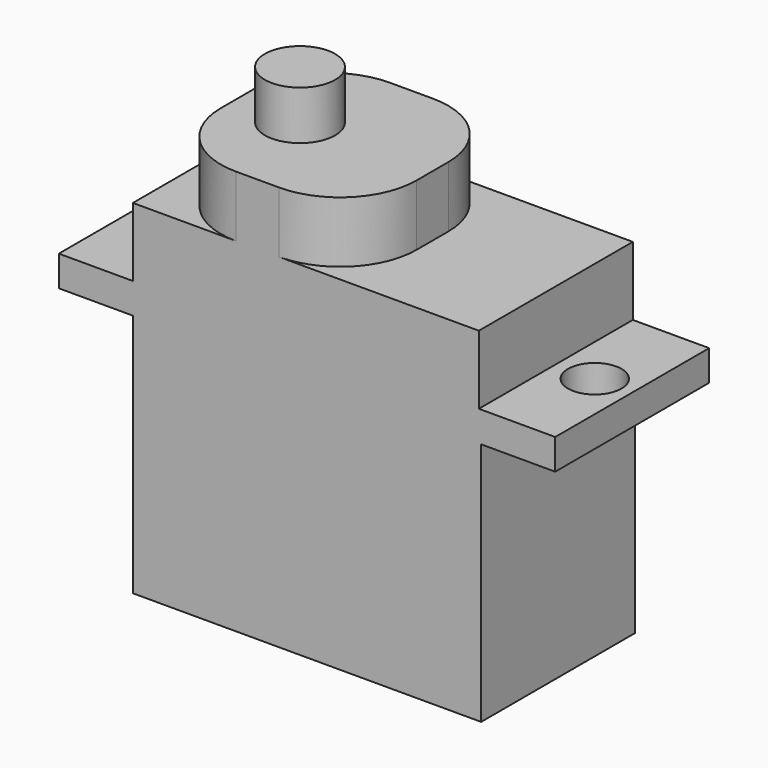
from build123d import *

# Parameters (mm, degrees)
F1_DEPTH = 12.6
F2_R     = 1.75
F3_DEPTH = 2
F4_R     = 2.3
F5_DEPTH = 3.2
F6_R     = 5
F7_W     = 5.6
F7_H     = 2
F8_DEPTH = 2
F9_R     = 0.5


with BuildPart() as f1:
    # F0 (on Front) → F1 (new body)
    with BuildSketch(Plane.XZ):
        Polygon((-4.85, 16), (0, 16), (0, 0), (22.8, 0), (22.8, 16), (27.65, 16), (27.65, 18), (22.65, 18), (22.65, 22.5), (14.568375, 22.5), (14.568375, 26.5), (1.7551, 26.5), (1.7551, 22.5), (0, 22.5), (0, 18), (-4.85, 18), align=None)
    extrude(amount=F1_DEPTH)

    # F2 (on face) → F3 (cut, through all)
    with BuildSketch(Plane.XY.offset(18)):
        with Locations((-2.4, -6.3)):
            Circle(F2_R)
        with Locations((25.2, -6.3)):
            Circle(F2_R)
    extrude(amount=-F3_DEPTH, mode=Mode.SUBTRACT)

    # F4 (on face) → F5 (join)
    with BuildSketch(Plane.XY.offset(26.5)):
        with Locations((5.9, -6.3)):
            Circle(F4_R)
    extrude(amount=F5_DEPTH)

    # F6
    f6_edges = [f1.edges().sort_by_distance(p)[0] for p in [
        (14.568375, 0, 24.5),
        (14.568375, -12.6, 24.5),
        (1.7551, -12.6, 24.5),
        (1.7551, 0, 24.5),
    ]]
    fillet(f6_edges, radius=F6_R)

    # F7 (on face) → F8 (join)
    with BuildSketch(Plane(origin=(0, 0, 0), x_dir=(0, -1, 0), z_dir=(-1, 0, 0))):
        with Locations((5.8, 5)):
            Rectangle(F7_W, F7_H)
    extrude(amount=F8_DEPTH)

    # F9
    f9_edges = [f1.edges().sort_by_distance(p)[0] for p in [
        (-1, -8.6, 6),
        (-1, -3, 6),
        (-1, -3, 4),
        (-1, -8.6, 4),
    ]]
    fillet(f9_edges, radius=F9_R)


solid = f1.part
